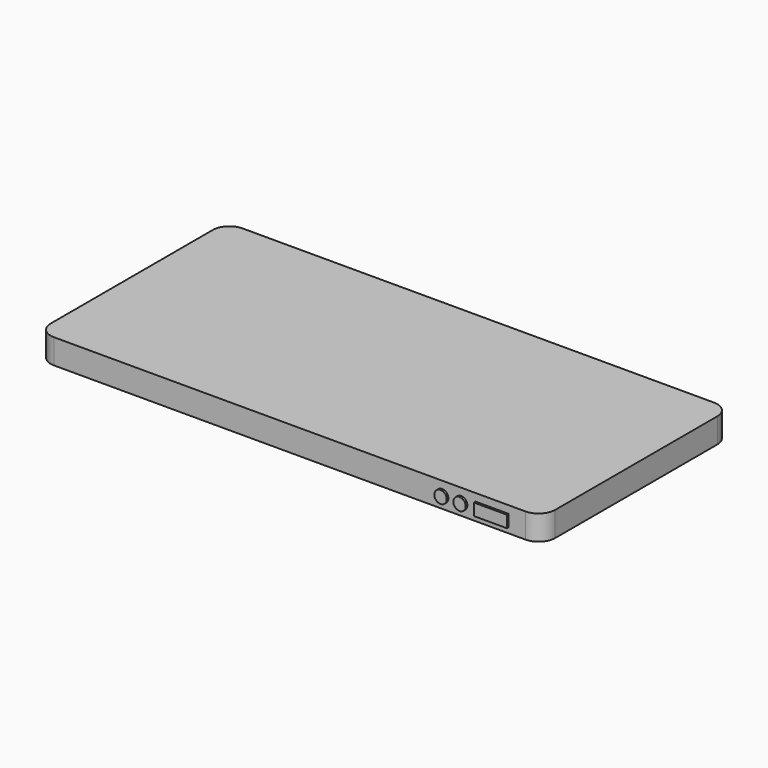
from build123d import *

# Parameters (mm, degrees)
F0_W      = 122
F0_H      = 57
F1_DEPTH  = 6
F2_R      = 4
F3_R      = 1.5
F3_W      = 8.049835
F3_H      = 2.874941
F4_DEPTH  = 0.5
F5_R      = 6.519395
F6_DEPTH  = 0.5
F7_W      = 88.799998
F7_H      = 42.300004
F8_DEPTH  = 0.1
F9_R      = 3.153566
F9_W      = 2.700009
F9_H      = 13.199998
F10_DEPTH = 0.5


with BuildPart() as f1:
    # F0 (on Top) → F1 (new body)
    with BuildSketch(Plane.XY):
        Rectangle(F0_W, F0_H)
    extrude(amount=F1_DEPTH)

    # F2
    f2_edges = [f1.edges().sort_by_distance(p)[0] for p in [
        (61, 28.5, 3),
        (61, -28.5, 3),
        (-61, 28.5, 3),
        (-61, -28.5, 3),
    ]]
    fillet(f2_edges, radius=F2_R)

    # F3 (on face) → F4 (join)
    with BuildSketch(Plane.XZ.offset(28.5)):
        with Locations((36.866432, 2.725052)):
            Circle(F3_R)
        with Locations((41.46634, 2.725052)):
            Circle(F3_R)
        with Locations((48.941184, 2.725053)):
            Rectangle(F3_W, F3_H)
    extrude(amount=F4_DEPTH)

    # F5 (on face) → F6 (cut)
    with BuildSketch(Plane(origin=(0, 0, 0), x_dir=(1, 0, 0), z_dir=(0, 0, -1))):
        with Locations((-52.800003, 0)):
            Circle(F5_R)
    extrude(amount=-F6_DEPTH, mode=Mode.SUBTRACT)

    # F7 (on face) → F8 (cut)
    with BuildSketch(Plane(origin=(0, 0, 0), x_dir=(1, 0, 0), z_dir=(0, 0, -1))):
        Rectangle(F7_W, F7_H)
    extrude(amount=-F8_DEPTH, mode=Mode.SUBTRACT)

    # F9 (on face) → F10 (cut)
    with BuildSketch(Plane(origin=(0, 0, 0), x_dir=(1, 0, 0), z_dir=(0, 0, -1))):
        with Locations((56.55, 0)):
            Circle(F9_R)
        with Locations((48.599999, 0)):
            Rectangle(F9_W, F9_H)
    extrude(amount=-F10_DEPTH, mode=Mode.SUBTRACT)


solid = f1.part
